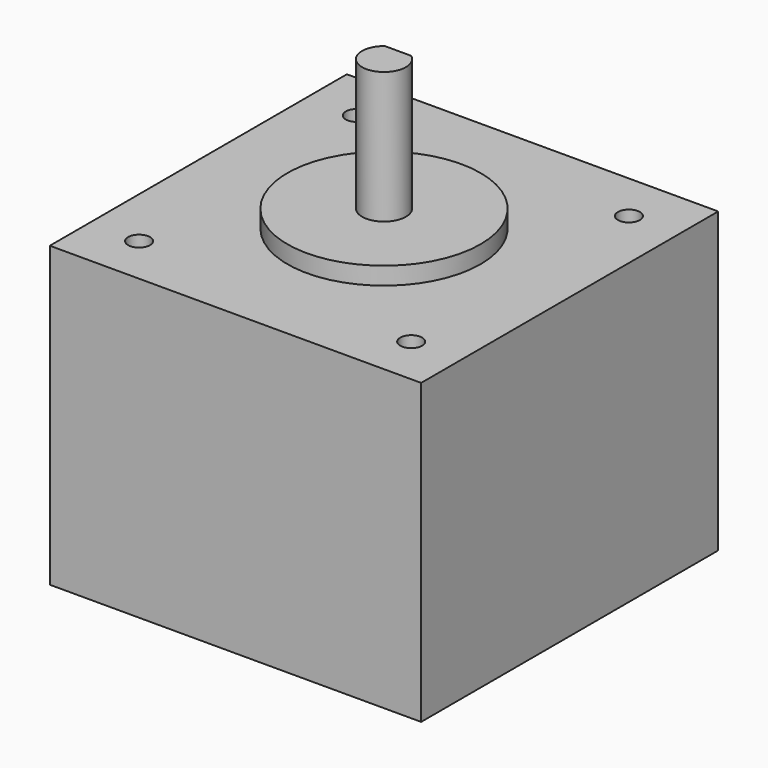
from build123d import *

# Parameters (mm, degrees)
F0_W     = 42.3
F0_H     = 42.3
F0_R     = 1.25
F0_R_2   = 11
F1_DEPTH = 34
F2_DEPTH = 36
F4_DEPTH = 15


with BuildPart() as f1:
    # F0 (on Top) → F1 (new body)
    with BuildSketch(Plane.XY):
        with Locations((21.15, 21.15)):
            Rectangle(F0_W, F0_H)
        with Locations((5.65, 5.65)):
            Circle(F0_R, mode=Mode.SUBTRACT)
        with Locations((36.65, 5.65)):
            Circle(F0_R, mode=Mode.SUBTRACT)
        with Locations((5.65, 36.65)):
            Circle(F0_R, mode=Mode.SUBTRACT)
        with Locations((21.15, 21.15)):
            Circle(F0_R_2, mode=Mode.SUBTRACT)
        with Locations((36.65, 36.65)):
            Circle(F0_R, mode=Mode.SUBTRACT)
        with Locations((21.15, 21.15)):
            Circle(F0_R_2)
    extrude(amount=F1_DEPTH)

    # F0 (on Top) → F2 (join)
    with BuildSketch(Plane.XY):
        with Locations((21.15, 21.15)):
            Circle(F0_R_2)
    extrude(amount=F2_DEPTH)

    # F3 (on face) → F4 (join)
    with BuildSketch(Plane.XY.offset(36)):
        with BuildLine():
            Line((22.65, 23.15), (19.65, 23.15))
            ThreePointArc((19.65, 23.15), (21.15, 18.65), (22.65, 23.15))
        make_face()
    extrude(amount=F4_DEPTH)


solid = f1.part
